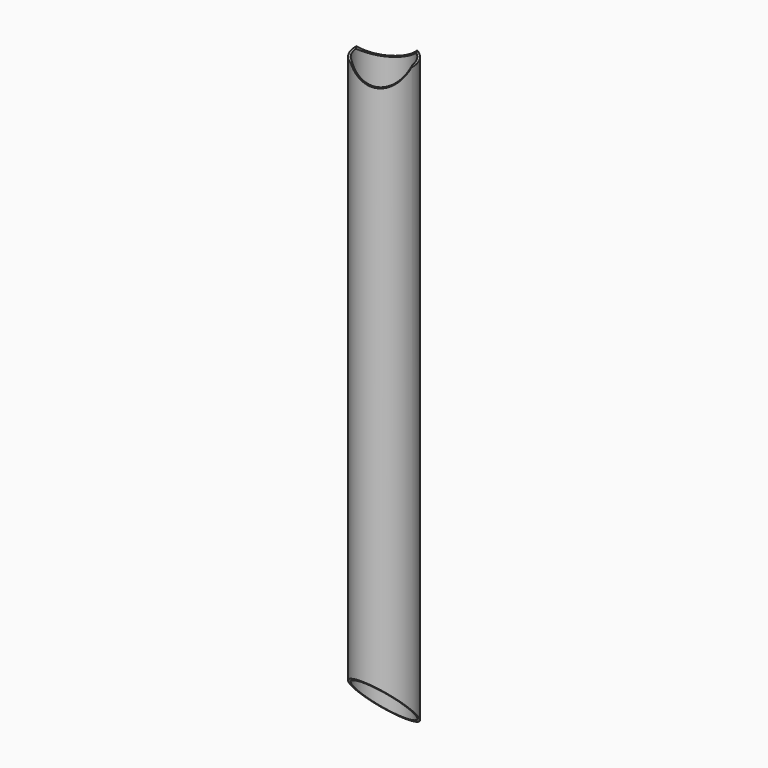
from build123d import *

# Parameters (mm, degrees)
F0_R          = 24.13
F0_R_2        = 22.3012
F1_DEPTH      = 509.5875
F3_DEPTH      = 24.131
F3_DEPTH_BACK = 24.131
F6_R          = 24.13
F7_DEPTH      = 50.8
F7_DEPTH_BACK = 50.8


with BuildPart() as f1:
    # F0 (on Top) → F1 (new body)
    with BuildSketch(Plane.XY):
        Circle(F0_R)
        Circle(F0_R_2, mode=Mode.SUBTRACT)
    extrude(amount=F1_DEPTH)

    # F2 (on Right) → F3 (cut, two sides)
    with BuildSketch(Plane.YZ) as f3_sk:
        Polygon((-24.13, 48.26), (-24.13, 0), (24.13, 0), align=None)
    extrude(amount=-F3_DEPTH, mode=Mode.SUBTRACT)
    extrude(f3_sk.sketch, amount=F3_DEPTH_BACK, mode=Mode.SUBTRACT)

    # F6 (on line) → F7 (cut, two sides)
    with BuildSketch(Plane(origin=(0, 0, 0), x_dir=(0.8660254038, 0.5, 0), z_dir=(0.5, -0.8660254038, 0))) as f7_sk:
        with Locations((0, 522.2875)):
            Circle(F6_R)
    extrude(amount=-F7_DEPTH, mode=Mode.SUBTRACT)
    extrude(f7_sk.sketch, amount=F7_DEPTH_BACK, mode=Mode.SUBTRACT)


solid = f1.part
